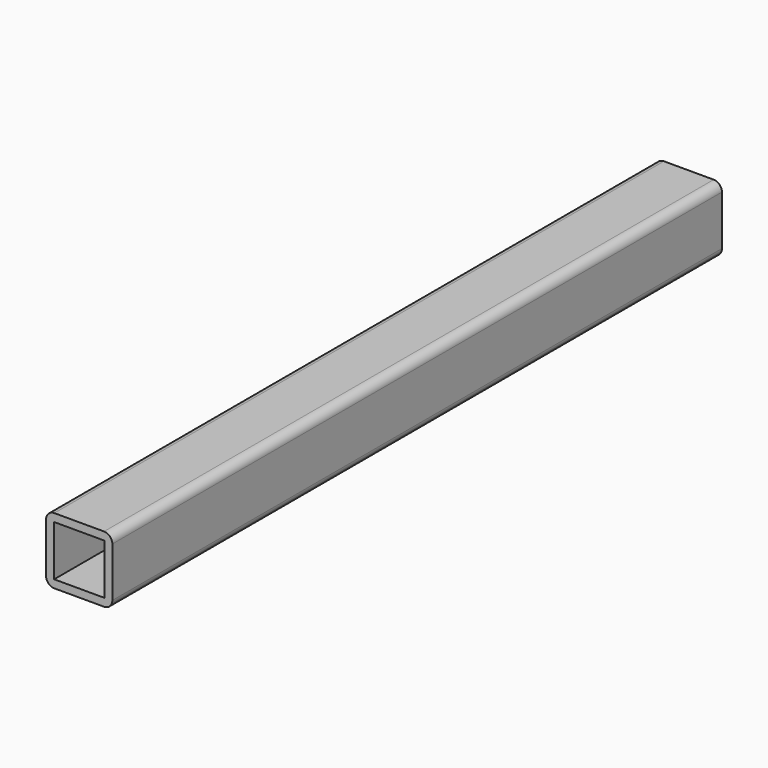
from build123d import *

# Parameters (mm, degrees)
F0_W     = 19.204408
F0_H     = 19.321248
F1_DEPTH = 146.05


with BuildPart() as f1:
    # F0 (on Front) → F1 (new body, symmetric)
    with BuildSketch(Plane.XZ):
        with BuildLine():
            ThreePointArc((12.7, 9.525), (11.770064, 11.770064), (9.525, 12.7))
            Line((9.525, 12.7), (-9.525, 12.7))
            ThreePointArc((-9.525, 12.7), (-11.770064, 11.770064), (-12.7, 9.525))
            Line((-12.7, 9.525), (-12.7, -9.525))
            ThreePointArc((-12.7, -9.525), (-11.770064, -11.770064), (-9.525, -12.7))
            Line((-9.525, -12.7), (9.525, -12.7))
            ThreePointArc((9.525, -12.7), (11.770064, -11.770064), (12.7, -9.525))
            Line((12.7, -9.525), (12.7, 9.525))
        make_face()
        Rectangle(F0_W, F0_H, mode=Mode.SUBTRACT)
    extrude(amount=F1_DEPTH, both=True)


solid = f1.part
